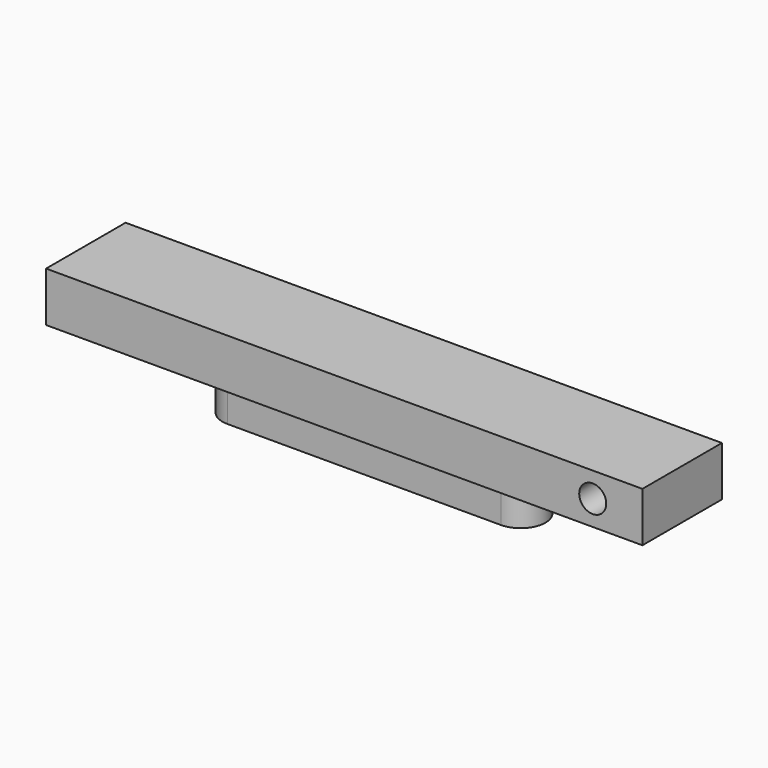
from build123d import *

# Parameters (mm, degrees)
F0_W     = 76.2
F0_H     = 12.7
F1_DEPTH = 6.35
F4_D     = 3.4544
F6_DEPTH = 5.715
F8_D     = 4.0386
F8_DEPTH = 10.16
F8_TIP   = 1.213317848


with BuildPart() as f1:
    # F0 (on Top) → F1 (new body)
    with BuildSketch(Plane.XY):
        Rectangle(F0_W, F0_H)
    extrude(amount=F1_DEPTH)

    # F4 (through all)
    with Locations(Plane.XZ.offset(6.35)):
        with Locations((31.75, 3.175)):
            Hole(F4_D / 2)

    # F5 (on face) → F6 (join)
    with BuildSketch(Plane(origin=(0, 0, 0), x_dir=(1, 0, 0), z_dir=(0, 0, -1))):
        with BuildLine():
            ThreePointArc((-17.4625, 3.175), (-20.6375, 0), (-17.4625, -3.175))
            Line((-17.4625, -3.175), (17.4625, -3.175))
            ThreePointArc((17.4625, -3.175), (20.6375, 0), (17.4625, 3.175))
            Line((17.4625, 3.175), (-17.4625, 3.175))
        make_face()
    extrude(amount=F6_DEPTH)

    # F8
    with Locations(Plane(origin=(0, 0, -5.715), x_dir=(1, 0, 0), z_dir=(0, 0, -1))):
        with Locations((-12.7, 0), (12.7, 0)):
            Hole(F8_D / 2, depth=F8_DEPTH)
            with Locations((0, 0, -(F8_DEPTH + F8_TIP / 2))):  # 118° drill point
                Cone(0, F8_D / 2, F8_TIP, mode=Mode.SUBTRACT)


solid = f1.part
